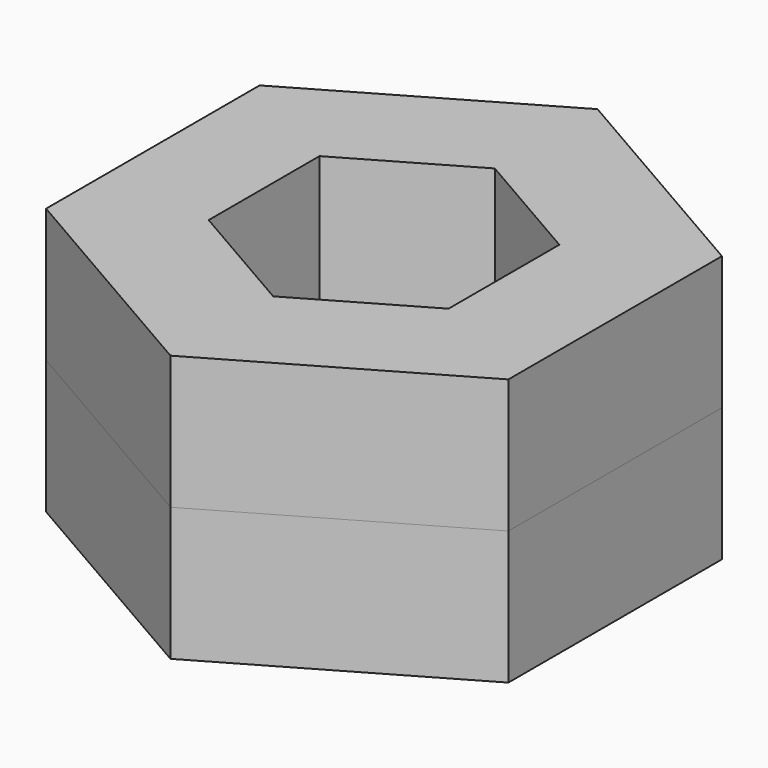
from build123d import *

# Parameters (mm, degrees)
F1_DEPTH = 300


with BuildPart() as f1:
    # F0 (on Top) → F1 (new body)
    with BuildSketch(Plane.XY):
        Polygon((269.615242, 155.662433), (519.615242, 300), (0, 600), (0, 311.324865), align=None)
        Polygon((519.615242, -300), (519.615242, 300), (269.615242, 155.662433), (269.615242, -155.662433), align=None)
        Polygon((0, -600), (519.615242, -300), (269.615242, -155.662433), (0, -311.324865), align=None)
        Polygon((0, 311.324865), (0, 600), (-519.615242, 300), (-269.615242, 155.662433), align=None)
        Polygon((-519.615242, -300), (0, -600), (0, -311.324865), (-269.615242, -155.662433), align=None)
        Polygon((-269.615242, 155.662433), (-519.615242, 300), (-519.615242, -300), (-269.615242, -155.662433), align=None)
    extrude(amount=F1_DEPTH)


with BuildPart() as f2_1:
    # F2: copy of F1
    add(f1.part.moved(Location((0, 0, 300))))


solid = Compound([f1.part, f2_1.part])
